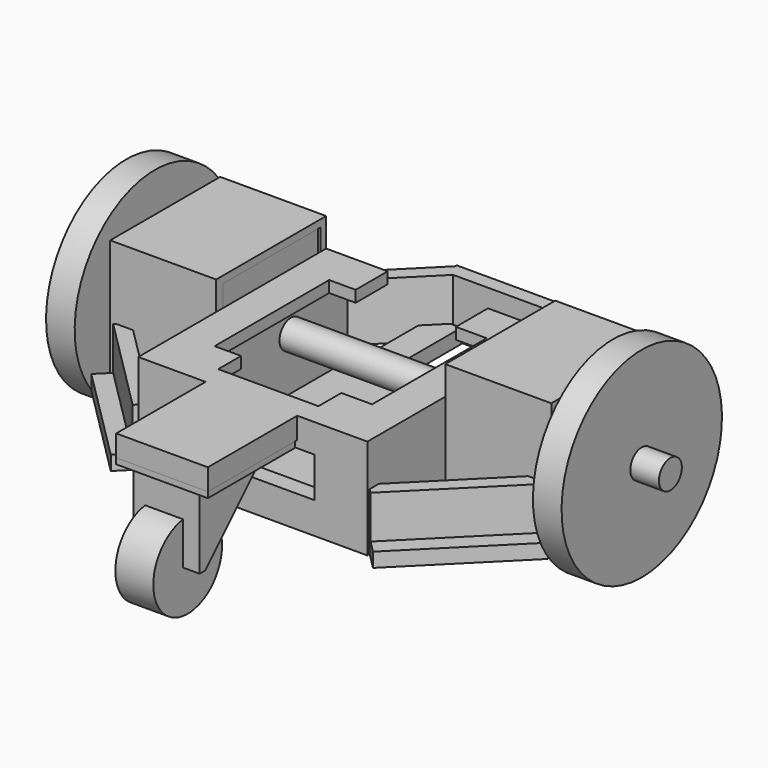
from build123d import *

# Parameters (mm, degrees)
BOX002_W               = 42.5
BOX002_H               = 34
BOX002_DEPTH           = 42.5
BOX003_W               = 42.5
BOX003_H               = 34
BOX003_DEPTH           = 42.5
CYLINDER_R             = 5
CYLINDER_DEPTH         = 200
CYLINDER001_R          = 35
CYLINDER001_DEPTH      = 10
CYLINDER002_R          = 35
CYLINDER002_DEPTH      = 10
BOX005_W               = 32
BOX005_H               = 38
BOX005_DEPTH           = 2
BOX004_W               = 23
BOX004_H               = 27.5
BOX004_DEPTH           = 27.5
CHAMFER_SIZE           = 25
CYLINDER003_R          = 15
CYLINDER003_DEPTH      = 13.25
BOX019_W               = 48
BOX019_H               = 11
BOX019_DEPTH           = 5
BOX020_W               = 48
BOX020_H               = 5
BOX020_DEPTH           = 20
BOX017_W               = 48
BOX017_H               = 5
BOX017_DEPTH           = 20
BOX017_PLACEMENT_ANGLE = 45
BOX016_W               = 48
BOX016_H               = 11
BOX016_DEPTH           = 5
BOX016_PLACEMENT_ANGLE = 45
BOX015_W               = 6
BOX015_H               = 45
BOX015_DEPTH           = 14
BOX014_W               = 74
BOX014_H               = 35
BOX014_DEPTH           = 10
BOX013_W               = 50
BOX013_H               = 55
BOX013_DEPTH           = 10
BOX012_W               = 121
BOX012_H               = 80
BOX012_DEPTH           = 10
BOX010_W               = 76
BOX010_H               = 65
BOX010_DEPTH           = 28
BOX009_W               = 3
BOX009_H               = 22
BOX009_DEPTH           = 21
CYLINDER004_R          = 11
CYLINDER004_DEPTH      = 3
BOX007_W               = 42.5
BOX007_H               = 34
BOX007_DEPTH           = 42.5
BOX008_W               = 42.5
BOX008_H               = 34
BOX008_DEPTH           = 42.5
BOX_W                  = 37
BOX_H                  = 48
BOX_DEPTH              = 45
BOX001_W               = 80
BOX001_H               = 82
BOX001_DEPTH           = 45
BOX006_W               = 32
BOX006_H               = 39
BOX006_DEPTH           = 10
BOX011_W               = 65
BOX011_H               = 2
BOX011_DEPTH           = 2
BOX018_W               = 32
BOX018_H               = 10
BOX018_DEPTH           = 5


with BuildPart() as obj1:
    # Box002 → Box002 (new body)
    with BuildSketch(Plane(origin=(0, 30, 0), x_dir=(0, 1, 0), z_dir=(0, 0, 1))):
        with Locations((21.25, 17)):
            Rectangle(BOX002_W, BOX002_H)
    extrude(amount=BOX002_DEPTH)


with BuildPart() as obj2:
    # Box003 → Box003 (new body)
    with BuildSketch(Plane(origin=(114, 30, 0), x_dir=(0, 1, 0), z_dir=(0, 0, 1))):
        with Locations((21.25, 17)):
            Rectangle(BOX003_W, BOX003_H)
    extrude(amount=BOX003_DEPTH)


with BuildPart() as stepperaxis:
    # Cylinder → Cylinder (new body)
    with BuildSketch(Plane(origin=(-60, 51.25, 21.25), x_dir=(0, 0, -1), z_dir=(1, 0, 0))):
        Circle(CYLINDER_R)
    extrude(amount=CYLINDER_DEPTH)


with BuildPart() as obj3:
    # Cylinder001 → Cylinder001 (new body)
    with BuildSketch(Plane(origin=(-50, 51.25, 21.25), x_dir=(0, 0, -1), z_dir=(1, 0, 0))):
        Circle(CYLINDER001_R)
    extrude(amount=CYLINDER001_DEPTH)


with BuildPart() as obj4:
    # Cylinder002 → Cylinder002 (new body)
    with BuildSketch(Plane(origin=(120, 51.25, 21.25), x_dir=(0, 0, -1), z_dir=(1, 0, 0))):
        Circle(CYLINDER002_R)
    extrude(amount=CYLINDER002_DEPTH)


with BuildPart() as baseplate:
    # Box005 → Box005 (new body)
    with BuildSketch(Plane(origin=(-4.5, -152, 25.5), x_dir=(1, 0, 0), z_dir=(0, 0, 1))):
        with Locations((16, 19)):
            Rectangle(BOX005_W, BOX005_H)
    extrude(amount=BOX005_DEPTH)


with BuildPart() as chamfer_body:
    # Box004 → Box004 (new body)
    with BuildSketch(Plane(origin=(0, -150, 0), x_dir=(1, 0, 0), z_dir=(0, 0, 1))):
        with Locations((11.5, 13.75)):
            Rectangle(BOX004_W, BOX004_H)
    extrude(amount=BOX004_DEPTH)

    # Chamfer
    chamfer_edges = [chamfer_body.edges().sort_by_distance(p)[0] for p in [
        (11.5, -122.5, 0),
    ]]
    chamfer(chamfer_edges, length=CHAMFER_SIZE)


with BuildPart() as swivelfusion:
    # Cylinder003 → Cylinder003 (new body)
    with BuildSketch(Plane(origin=(4, -148, 0), x_dir=(0, 0, -1), z_dir=(1, 0, 0))):
        Circle(CYLINDER003_R)
    extrude(amount=CYLINDER003_DEPTH)

    # Fusion: union BasePlate, Chamfer body
    add(baseplate.part)
    add(chamfer_body.part)


with BuildPart() as swivelfusion_1:
    # Fusion placement: moved
    add(swivelfusion.part.moved(Location((28, 107, 0))))


with BuildPart() as cube010:
    # Box019 → Box019 (new body)
    with BuildSketch(Plane(origin=(16, 108, 0), x_dir=(1, 0, 0), z_dir=(0, 0, 1))):
        with Locations((24, 5.5)):
            Rectangle(BOX019_W, BOX019_H)
    extrude(amount=BOX019_DEPTH)


with BuildPart() as cube011:
    # Box020 → Box020 (new body)
    with BuildSketch(Plane(origin=(16, 108, 0), x_dir=(1, 0, 0), z_dir=(0, 0, 1))):
        with Locations((24, 2.5)):
            Rectangle(BOX020_W, BOX020_H)
    extrude(amount=BOX020_DEPTH)


with BuildPart() as cube008:
    # Box017 → Box017 (new body)
    with BuildSketch(Plane.XY):
        with Locations((24, 2.5)):
            Rectangle(BOX017_W, BOX017_H)
    extrude(amount=BOX017_DEPTH)


with BuildPart() as cube008_1:
    # Box017 placement: moved
    add(cube008.part.moved(Location((60.25, 109, 0))).rotate(Axis((60.25, 109, 0), (0, 0, -1)), BOX017_PLACEMENT_ANGLE))


with BuildPart() as obj5:
    # Box016 → Box016 (new body)
    with BuildSketch(Plane.XY):
        with Locations((24, 5.5)):
            Rectangle(BOX016_W, BOX016_H)
    extrude(amount=BOX016_DEPTH)


with BuildPart() as obj5_1:
    # Box016 placement: moved
    add(obj5.part.moved(Location((60.25, 109, 0))).rotate(Axis((60.25, 109, 0), (0, 0, -1)), BOX016_PLACEMENT_ANGLE))

    # Fusion008: union Cube008
    add(cube008_1.part)


with BuildPart() as fusion011:
    # Part__Mirroring002: instance of obj5
    add(obj5_1.part.mirror(Plane(origin=(0, 0, 0), x_dir=(0, -1, 0), z_dir=(1, 0, 0))))


with BuildPart() as fusion011_1:
    # Part__Mirroring002 placement: moved
    add(fusion011.part.moved(Location((80, 0, 0))))

    # Fusion011: union obj5
    add(obj5_1.part)


with BuildPart() as cube006:
    # Box015 → Box015 (new body)
    with BuildSketch(Plane(origin=(61.5, -6, 11), x_dir=(0, 1, 0), z_dir=(0, 0, 1))):
        with Locations((3, 22.5)):
            Rectangle(BOX015_W, BOX015_H)
    extrude(amount=BOX015_DEPTH)


with BuildPart() as cube005:
    # Box014 → Box014 (new body)
    with BuildSketch(Plane(origin=(56.5, 2, 29), x_dir=(0, 1, 0), z_dir=(0, 0, 1))):
        with Locations((37, 17.5)):
            Rectangle(BOX014_W, BOX014_H)
    extrude(amount=BOX014_DEPTH)


with BuildPart() as fusion007:
    # Box013 → Box013 (new body)
    with BuildSketch(Plane(origin=(67.25, 12, 29), x_dir=(0, 1, 0), z_dir=(0, 0, 1))):
        with Locations((25, 27.5)):
            Rectangle(BOX013_W, BOX013_H)
    extrude(amount=BOX013_DEPTH)

    # Fusion007: union Cube005
    add(cube005.part)


with BuildPart() as cube003:
    # Box012 → Box012 (new body)
    with BuildSketch(Plane(origin=(80, -45, 35), x_dir=(0, 1, 0), z_dir=(0, 0, 1))):
        with Locations((60.5, 40)):
            Rectangle(BOX012_W, BOX012_H)
    extrude(amount=BOX012_DEPTH)


with BuildPart() as battery:
    # Box010 → Box010 (new body)
    with BuildSketch(Plane(origin=(72.5, 0, 3), x_dir=(0, 1, 0), z_dir=(0, 0, 1))):
        with Locations((38, 32.5)):
            Rectangle(BOX010_W, BOX010_H)
    extrude(amount=BOX010_DEPTH)


with BuildPart() as cube001:
    # Box009 → Box009 (new body)
    with BuildSketch(Plane(origin=(117, 40.25, 21), x_dir=(-1, 0, 0), z_dir=(0, 0, -1))):
        with Locations((1.5, 11)):
            Rectangle(BOX009_W, BOX009_H)
    extrude(amount=BOX009_DEPTH)


with BuildPart() as obj6:
    # Cylinder004 → Cylinder004 (new body)
    with BuildSketch(Plane(origin=(114, 51.25, 21), x_dir=(0, 0, -1), z_dir=(1, 0, 0))):
        Circle(CYLINDER004_R)
    extrude(amount=CYLINDER004_DEPTH)

    # Fusion004: union Cube001
    add(cube001.part)


with BuildPart() as fusion005:
    # Part__Mirroring001: instance of obj6
    add(obj6.part.mirror(Plane(origin=(0, 0, 0), x_dir=(0, -1, 0), z_dir=(1, 0, 0))))


with BuildPart() as fusion005_1:
    # Part__Mirroring001 placement: moved
    add(fusion005.part.moved(Location((80, 0, 0))))

    # Fusion005: union obj6
    add(obj6.part)


with BuildPart() as obj7:
    # Box007 → Box007 (new body)
    with BuildSketch(Plane(origin=(114, 30, 0), x_dir=(0, 1, 0), z_dir=(0, 0, 1))):
        with Locations((21.25, 17)):
            Rectangle(BOX007_W, BOX007_H)
    extrude(amount=BOX007_DEPTH)


with BuildPart() as motorplaceholder:
    # Box008 → Box008 (new body)
    with BuildSketch(Plane(origin=(0, 30, 0), x_dir=(0, 1, 0), z_dir=(0, 0, 1))):
        with Locations((21.25, 17)):
            Rectangle(BOX008_W, BOX008_H)
    extrude(amount=BOX008_DEPTH)

    # Fusion003: union obj7
    add(obj7.part)


with BuildPart() as motorplaceholder_1:
    # Fusion003 placement: moved
    add(motorplaceholder.part.moved(Location((0, 1, 0))))


with BuildPart() as obj8:
    # Box → Box (new body)
    with BuildSketch(Plane(origin=(-37, 28, 0), x_dir=(1, 0, 0), z_dir=(0, 0, 1))):
        with Locations((18.5, 24)):
            Rectangle(BOX_W, BOX_H)
    extrude(amount=BOX_DEPTH)


with BuildPart() as chassis:
    # Box001 → Box001 (new body)
    with BuildSketch(Plane(origin=(0, -6, 0), x_dir=(1, 0, 0), z_dir=(0, 0, 1))):
        with Locations((40, 41)):
            Rectangle(BOX001_W, BOX001_H)
    extrude(amount=BOX001_DEPTH)


with BuildPart() as fusion001:
    # Part__Mirroring: instance of obj8
    add(obj8.part.mirror(Plane(origin=(0, 0, 0), x_dir=(0, -1, 0), z_dir=(1, 0, 0))))


with BuildPart() as fusion001_1:
    # Part__Mirroring placement: moved
    add(fusion001.part.moved(Location((80, 0, 0))))

    # Fusion001: union obj8, Chassis
    add(obj8.part)
    add(chassis.part)


with BuildPart() as cut002:
    # Box006 → Box006 (new body)
    with BuildSketch(Plane(origin=(23.5, -45, 27.5), x_dir=(1, 0, 0), z_dir=(0, 0, 1))):
        with Locations((16, 19.5)):
            Rectangle(BOX006_W, BOX006_H)
    extrude(amount=BOX006_DEPTH)

    # Fusion002: union Fusion001
    add(fusion001_1.part)

    # Cut: cut MotorPlaceholder
    add(motorplaceholder_1.part, mode=Mode.SUBTRACT)

    # Cut001: cut Fusion005
    add(fusion005_1.part, mode=Mode.SUBTRACT)

    # Cut002: cut Battery
    add(battery.part, mode=Mode.SUBTRACT)


with BuildPart() as cut005:
    # Box011 → Box011 (new body)
    with BuildSketch(Plane(origin=(7.5, 74, 3), x_dir=(1, 0, 0), z_dir=(0, 0, 1))):
        with Locations((32.5, 1)):
            Rectangle(BOX011_W, BOX011_H)
    extrude(amount=BOX011_DEPTH)

    # Fusion006: union Cut002
    add(cut002.part)

    # Cut003: cut Cube003
    add(cube003.part, mode=Mode.SUBTRACT)

    # Cut004: cut Fusion007
    add(fusion007.part, mode=Mode.SUBTRACT)

    # Cut005: cut Cube006
    add(cube006.part, mode=Mode.SUBTRACT)


with BuildPart() as obj9:
    # Part__Mirroring003: instance of obj5
    add(obj5_1.part.mirror(Plane(origin=(0, 0, 0), x_dir=(1, 0, 0), z_dir=(0, 1, 0))))


with BuildPart() as obj9_1:
    # Part__Mirroring003 placement: moved
    add(obj9.part.moved(Location((17.75, 106, 0))))


with BuildPart() as obj10:
    # Box018 → Box018 (new body)
    with BuildSketch(Plane(origin=(58, 107.5, 0), x_dir=(0, -1, 0), z_dir=(0, 0, 1))):
        with Locations((16, 5)):
            Rectangle(BOX018_W, BOX018_H)
    extrude(amount=BOX018_DEPTH)

    # Fusion009: union obj9
    add(obj9_1.part)


with BuildPart() as obj11:
    # Part__Mirroring004: instance of obj10
    add(obj10.part.mirror(Plane(origin=(0, 0, 0), x_dir=(0, -1, 0), z_dir=(1, 0, 0))))


with BuildPart() as obj11_1:
    # Part__Mirroring004 placement: moved
    add(obj11.part.moved(Location((80, 0, 0))))


with BuildPart() as obj12:
    # Fusion010 base: copy of obj10
    add(obj10.part)

    # Fusion010: union obj11
    add(obj11_1.part)

    # Connect: union Cut005
    add(cut005.part)

    # Fusion012: union Fusion011
    add(fusion011_1.part)

    # Fusion013: union Cube010, Cube011
    add(cube010.part)
    add(cube011.part)


solid = Compound([obj1.part, obj2.part, stepperaxis.part, obj3.part, obj4.part, swivelfusion_1.part, obj12.part])
